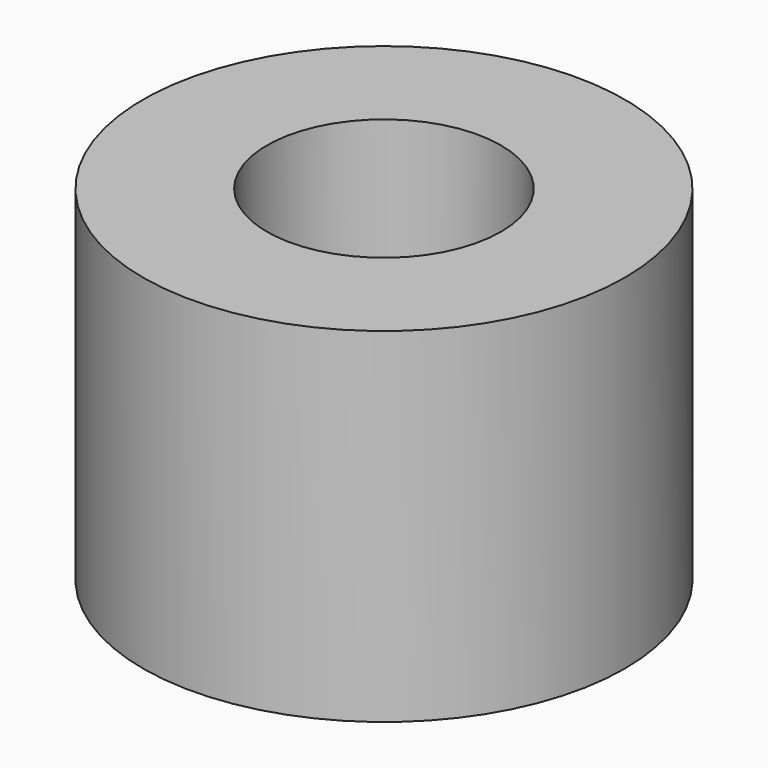
from build123d import *

# Parameters (mm, degrees)
CYLINDER032_R     = 1.7
CYLINDER032_DEPTH = 5
CYLINDER033_R     = 3.5
CYLINDER033_DEPTH = 5


with BuildPart() as cylinder032:
    # Cylinder032 → Cylinder032 (new body)
    with BuildSketch(Plane.XY):
        Circle(CYLINDER032_R)
    extrude(amount=CYLINDER032_DEPTH)


with BuildPart() as top_spacer:
    # Cylinder033 → Cylinder033 (new body)
    with BuildSketch(Plane.XY):
        Circle(CYLINDER033_R)
    extrude(amount=CYLINDER033_DEPTH)

    # Cut028006004005011004003001010002020: cut Cylinder032
    add(cylinder032.part, mode=Mode.SUBTRACT)


solid = top_spacer.part
